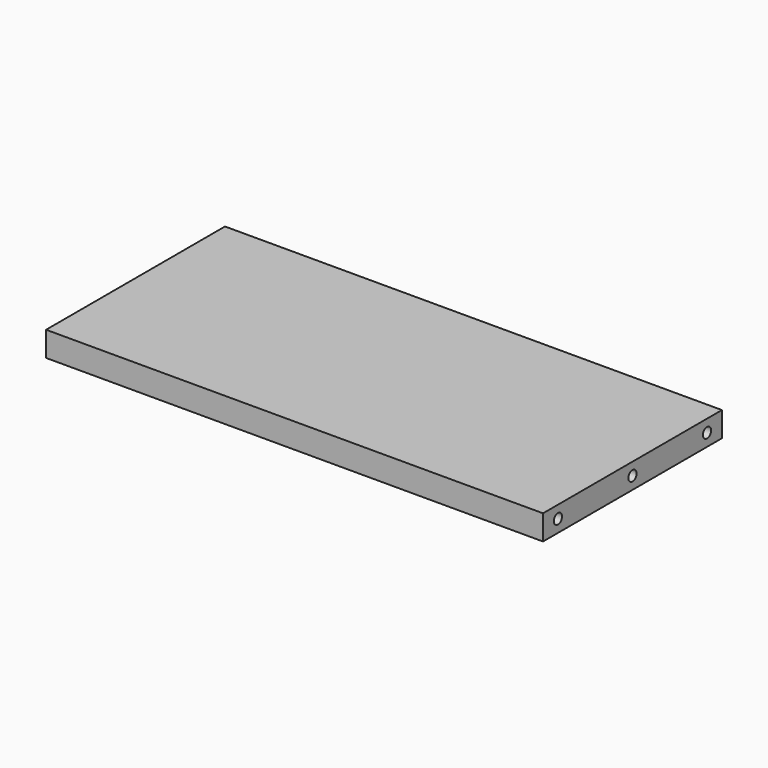
from build123d import *

# Parameters (mm, degrees)
BOX_W          = 160
BOX_H          = 72
BOX_DEPTH      = 8
SKETCH_R       = 1.65
HOLE_DEPTH     = 11.00858
HOLE_TIPS_R    = 1.65
SKETCH001_R    = 1.65
HOLE001_DEPTH  = 11.00858
HOLE001_TIPS_R = 1.65


with BuildPart() as part:
    # Box → Box (new body)
    with BuildSketch(Plane.XY):
        with Locations((80, 36)):
            Rectangle(BOX_W, BOX_H)
    extrude(amount=BOX_DEPTH)

    # Sketch (on Face1 of BaseFeature) → Hole (cut)
    with BuildSketch(Plane(origin=(0, 0, 0), x_dir=(0, -1, 0), z_dir=(-1, 0, 0))):
        with Locations((-66, 4)):
            Circle(SKETCH_R)
        with Locations((-36, 4)):
            Circle(SKETCH_R)
        with Locations((-6, 4)):
            Circle(SKETCH_R)
    extrude(amount=-HOLE_DEPTH, mode=Mode.SUBTRACT)

    # Hole tips → Hole tip 1 section 0
    with BuildSketch(Plane(origin=(11.00858, 0, 0), x_dir=(0, -1, 0), z_dir=(-1, 0, 0)), mode=Mode.PRIVATE) as hole_tip_1_s0:
        with Locations((-66, 4)):
            Circle(HOLE_TIPS_R)
    loft([hole_tip_1_s0.sketch, Vertex(12, 66, 4)], mode=Mode.SUBTRACT)

    # Hole tips → Hole tip 2 section 0
    with BuildSketch(Plane(origin=(11.00858, 0, 0), x_dir=(0, -1, 0), z_dir=(-1, 0, 0)), mode=Mode.PRIVATE) as hole_tip_2_s0:
        with Locations((-36, 4)):
            Circle(HOLE_TIPS_R)
    loft([hole_tip_2_s0.sketch, Vertex(12, 36, 4)], mode=Mode.SUBTRACT)

    # Hole tips → Hole tip 3 section 0
    with BuildSketch(Plane(origin=(11.00858, 0, 0), x_dir=(0, -1, 0), z_dir=(-1, 0, 0)), mode=Mode.PRIVATE) as hole_tip_3_s0:
        with Locations((-6, 4)):
            Circle(HOLE_TIPS_R)
    loft([hole_tip_3_s0.sketch, Vertex(12, 6, 4)], mode=Mode.SUBTRACT)

    # Sketch001 (on Face9 of Hole) → Hole001 (cut)
    with BuildSketch(Plane.YZ.offset(160)):
        with Locations((6, 4)):
            Circle(SKETCH001_R)
        with Locations((36, 4)):
            Circle(SKETCH001_R)
        with Locations((66, 4)):
            Circle(SKETCH001_R)
    extrude(amount=-HOLE001_DEPTH, mode=Mode.SUBTRACT)

    # Hole001 tips → Hole001 tip 1 section 0
    with BuildSketch(Plane.YZ.offset(148.99142), mode=Mode.PRIVATE) as hole001_tip_1_s0:
        with Locations((6, 4)):
            Circle(HOLE001_TIPS_R)
    loft([hole001_tip_1_s0.sketch, Vertex(148, 6, 4)], mode=Mode.SUBTRACT)

    # Hole001 tips → Hole001 tip 2 section 0
    with BuildSketch(Plane.YZ.offset(148.99142), mode=Mode.PRIVATE) as hole001_tip_2_s0:
        with Locations((36, 4)):
            Circle(HOLE001_TIPS_R)
    loft([hole001_tip_2_s0.sketch, Vertex(148, 36, 4)], mode=Mode.SUBTRACT)

    # Hole001 tips → Hole001 tip 3 section 0
    with BuildSketch(Plane.YZ.offset(148.99142), mode=Mode.PRIVATE) as hole001_tip_3_s0:
        with Locations((66, 4)):
            Circle(HOLE001_TIPS_R)
    loft([hole001_tip_3_s0.sketch, Vertex(148, 66, 4)], mode=Mode.SUBTRACT)


solid = part.part
